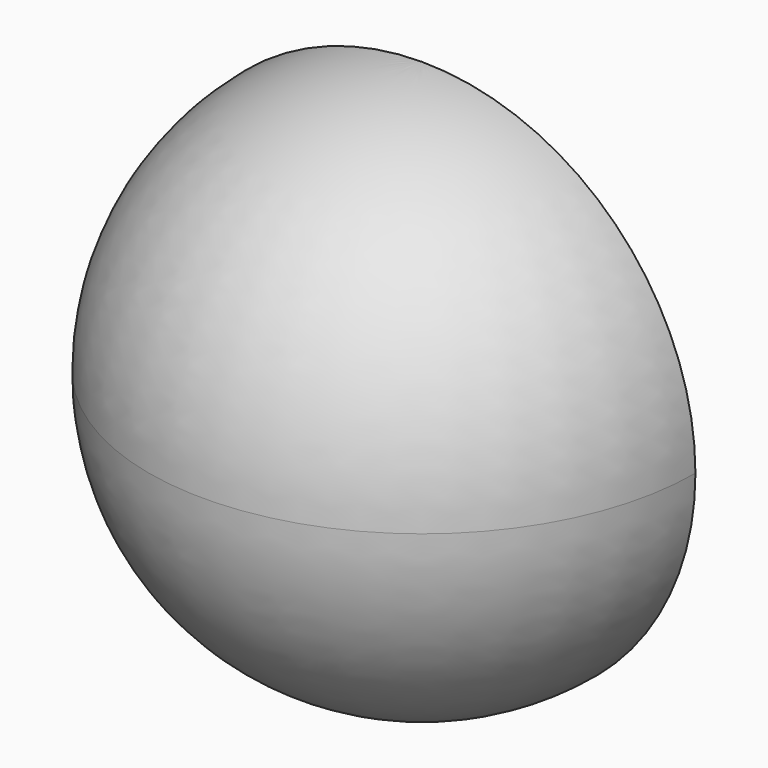
from build123d import *

# Parameters (mm, degrees)
F1_ANGLE = -180


with BuildPart() as f1:
    # F0 (on Front) → F1 (revolve)
    with BuildSketch(Plane.XZ):
        with BuildLine():
            ThreePointArc((0, -7.5), (5.303301, -5.303301), (7.5, 0))
            ThreePointArc((7.5, 0), (5.303301, 5.303301), (0, 7.5))
            Line((0, 7.5), (0, 0))
            Line((0, 0), (0, -7.5))
        make_face()
    revolve(axis=Axis((0, 0, 3.75), (0, 0, 1)), revolution_arc=F1_ANGLE)


solid = f1.part
